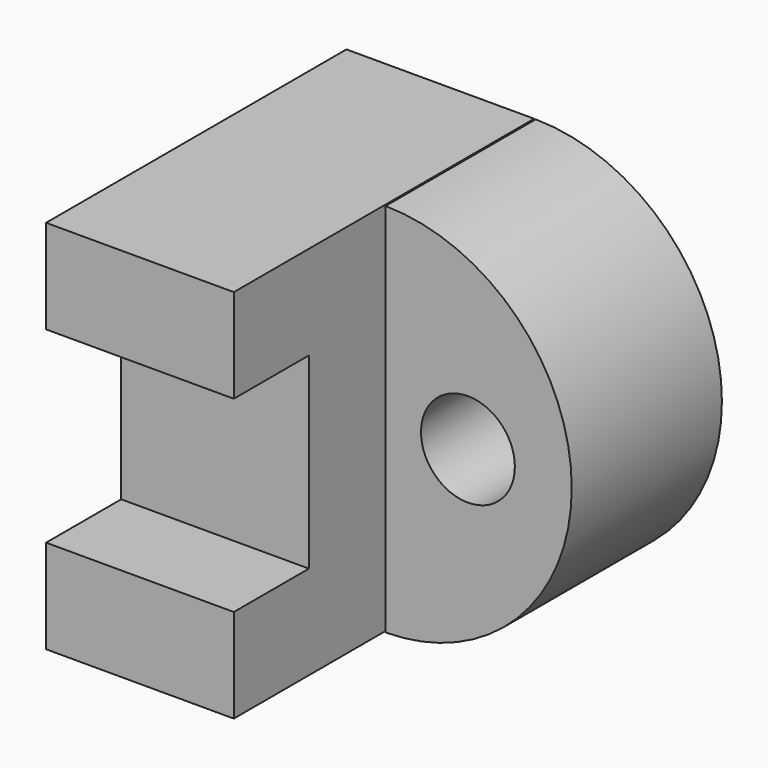
from build123d import *

# Parameters (mm, degrees)
F1_DEPTH = 12.7
F3_DEPTH = 12.7
F4_R     = 3.175
F5_DEPTH = 12.701


with BuildPart() as f1:
    # F0 (on Right) → F1 (new body)
    with BuildSketch(Plane.YZ):
        Polygon((-25.4, 0), (0, 0), (0, 25.4), (-25.4, 25.4), (-25.4, 19.05), (-19.05, 19.05), (-19.05, 6.35), (-25.4, 6.35), align=None)
    extrude(amount=F1_DEPTH)


with BuildPart() as f3:
    # F2 (on Front) → F3 (new body)
    with BuildSketch(Plane.XZ):
        with BuildLine():
            Line((12.807242, 25.4), (12.807242, 0))
            ThreePointArc((12.807242, 0), (25.400453, 12.7), (12.807242, 25.4))
        make_face()
    extrude(amount=F3_DEPTH)

    # F4 (on face) → F5 (cut, through all)
    with BuildSketch(Plane.XZ.offset(12.7)):
        with Locations((18.377574, 12.719289)):
            Circle(F4_R)
    extrude(amount=-F5_DEPTH, mode=Mode.SUBTRACT)


solid = Compound([f1.part, f3.part])
